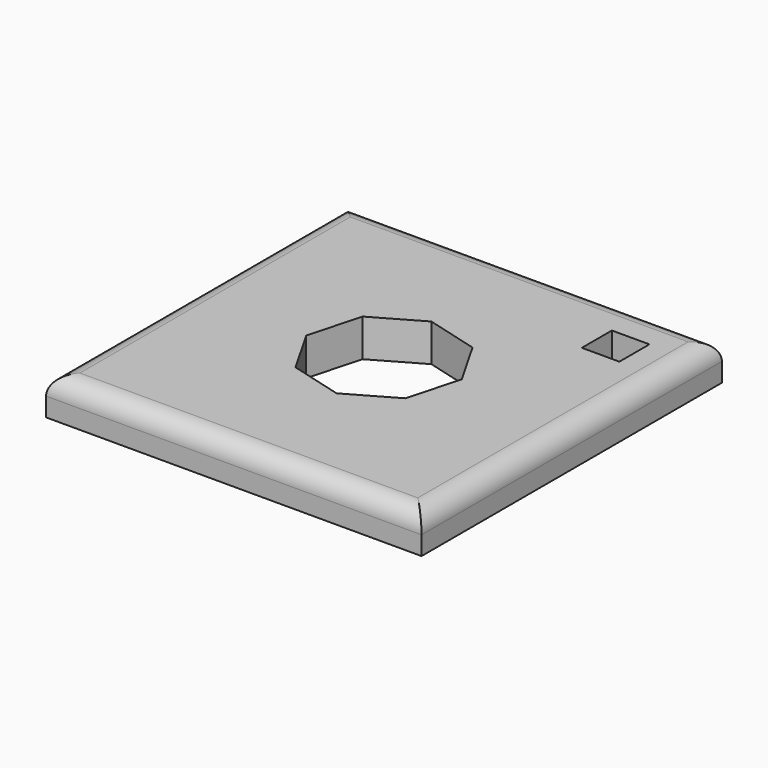
from build123d import *

# Parameters (mm, degrees)
F0_W     = 100
F0_H     = 100
F2_DEPTH = 10
F3_R     = 5
F4_DEPTH = 106.8
F5_W     = 10
F5_H     = 10
F6_DEPTH = 90.6


with BuildPart() as f2:
    # F0 (on Top) → F2 (new body)
    with BuildSketch(Plane.XY):
        Rectangle(F0_W, F0_H)
    extrude(amount=F2_DEPTH)

    # F3
    f3_edges = [f2.edges().sort_by_distance(p)[0] for p in [
        (50, 0, 10),
        (0, 50, 10),
        (-50, 0, 10),
        (0, -50, 10),
    ]]
    fillet(f3_edges, radius=F3_R)

    # F1 (on face) → F4 (cut)
    with BuildSketch(Plane.XY):
        Polygon((18.788767, 2.403422), (11.586189, 14.98514), (-2.403422, 18.788767), (-14.98514, 11.586189), (-18.788767, -2.403422), (-11.586189, -14.98514), (2.403422, -18.788767), (14.98514, -11.586189), align=None)
    extrude(amount=F4_DEPTH, mode=Mode.SUBTRACT)

    # F5 (on face) → F6 (cut)
    with BuildSketch(Plane.XY.offset(10)):
        with Locations((34.426235, 34.082789)):
            Rectangle(F5_W, F5_H)
    extrude(amount=-F6_DEPTH, mode=Mode.SUBTRACT)


solid = f2.part
